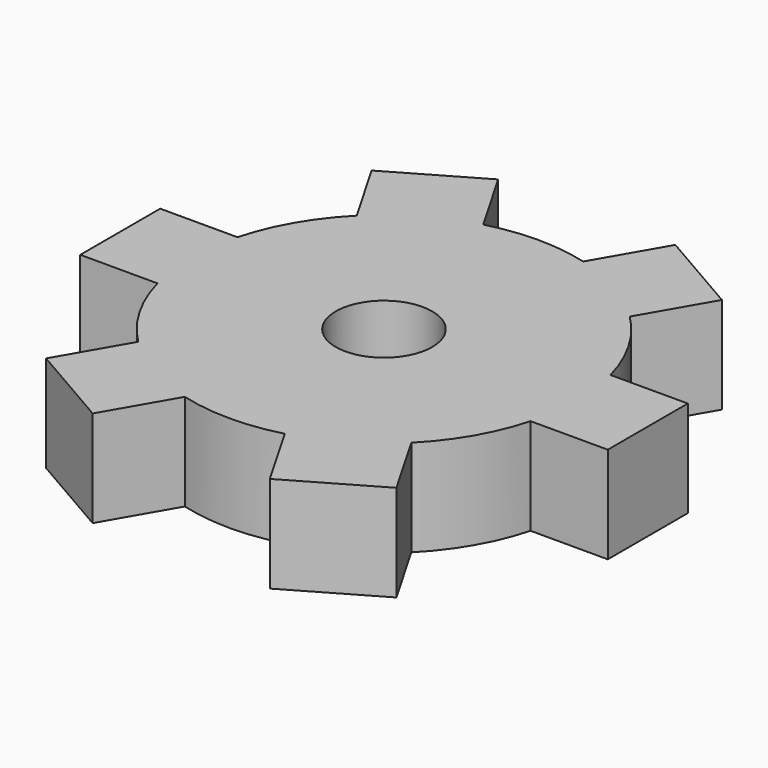
from build123d import *

# Parameters (mm, degrees)
F0_R     = 25.4
F1_DEPTH = 6.35
F3_DEPTH = 12.7
F5_COUNT = 6
F6_R     = 6.35
F7_DEPTH = 25.4


with BuildPart() as f1:
    # F0 (on Top) → F1 (new body, symmetric)
    with BuildSketch(Plane.XY):
        Circle(F0_R)
    extrude(amount=F1_DEPTH, both=True)

    # F2 (on face) → F3 (join)
    with BuildSketch(Plane.XY.offset(6.35)):
        with BuildLine():
            ThreePointArc((25.4, 0), (25.182699, -3.315365), (24.534516, -6.574004))
            Line((24.534516, -6.574004), (34.694516, -6.574004))
            Line((34.694516, -6.574004), (34.694516, 6.574004))
            Line((34.694516, 6.574004), (24.534516, 6.574004))
            ThreePointArc((24.534516, 6.574004), (25.182699, 3.315365), (25.4, 0))
        make_face()
    extrude(amount=-F3_DEPTH)

    # F5: F1 ×6 about axis
    f5_axis = Axis((0, 0, -15.993202), (0, 0, -1))


with BuildPart() as f1_1:
    add(f1.part)
    for i in range(1, F5_COUNT):
        add(f1.part.rotate(f5_axis, i * 360 / F5_COUNT))

    # F6 (on face) → F7 (cut)
    with BuildSketch(Plane(origin=(0, 0, -6.35), x_dir=(1, 0, 0), z_dir=(0, 0, -1))):
        Circle(F6_R)
    extrude(amount=-F7_DEPTH, mode=Mode.SUBTRACT)


solid = f1_1.part
